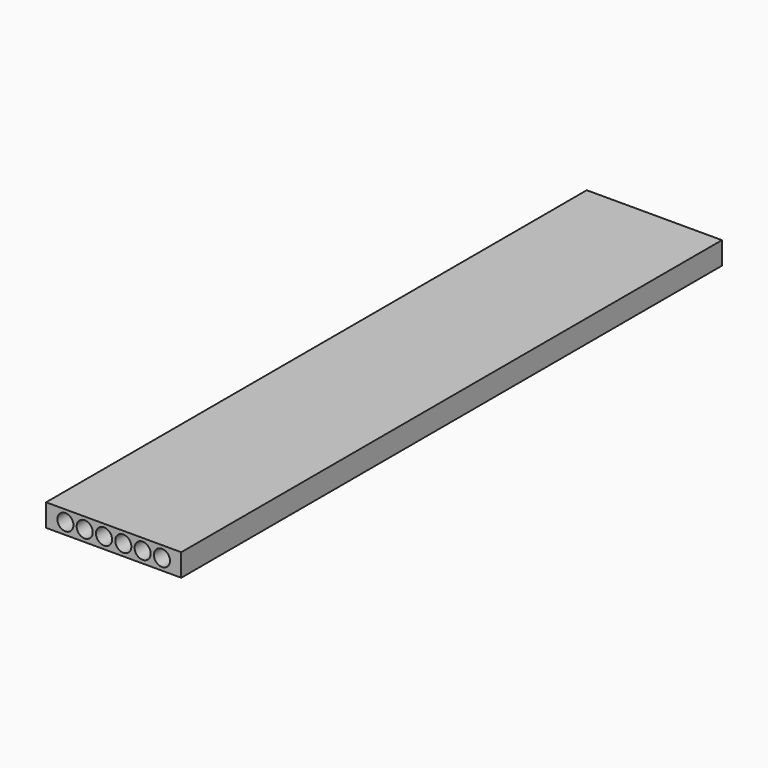
from build123d import *

# Parameters (mm, degrees)
F1_W     = 1219.2
F1_H     = 203.2
F1_R     = 72.5714285714
F2_DEPTH = 6096


with BuildPart() as f2:
    # F1 (on Front) → F2 (new body)
    with BuildSketch(Plane.XZ):
        with Locations((0, 101.6)):
            Rectangle(F1_W, F1_H)
        with Locations((-435.4285714286, 101.6)):
            Circle(F1_R, mode=Mode.SUBTRACT)
        with Locations((-261.2571428571, 101.6)):
            Circle(F1_R, mode=Mode.SUBTRACT)
        with Locations((-87.0857142857, 101.6)):
            Circle(F1_R, mode=Mode.SUBTRACT)
        with Locations((87.0857142857, 101.6)):
            Circle(F1_R, mode=Mode.SUBTRACT)
        with Locations((261.2571428571, 101.6)):
            Circle(F1_R, mode=Mode.SUBTRACT)
        with Locations((435.4285714286, 101.6)):
            Circle(F1_R, mode=Mode.SUBTRACT)
    extrude(amount=F2_DEPTH)


solid = f2.part
